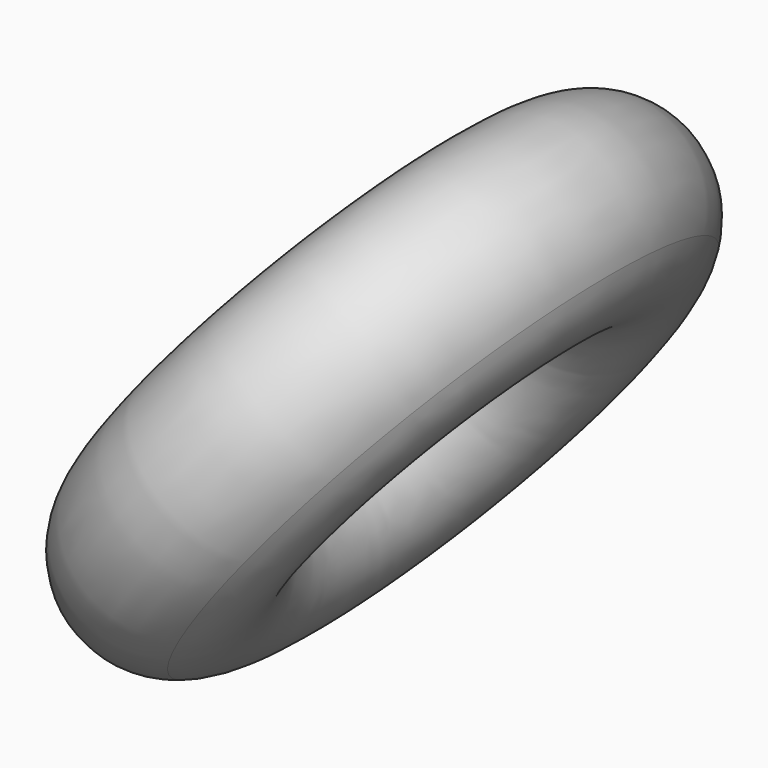
from build123d import *


with BuildPart() as f1:
    # F0 (on Front) → F1 (revolve)
    with BuildSketch(Plane.XZ):
        with BuildLine():
            ThreePointArc((3.347237, 34.006162), (27.751604, 13.953873), (49.348004, 37.003014))
            ThreePointArc((49.348004, 37.003014), (24.748398, 60.052156), (3.347237, 34.006162))
        make_face()
    revolve(axis=Axis((-10.004133, 0, -1.584204), (0.789535, 0, -0.613706)))


solid = f1.part
